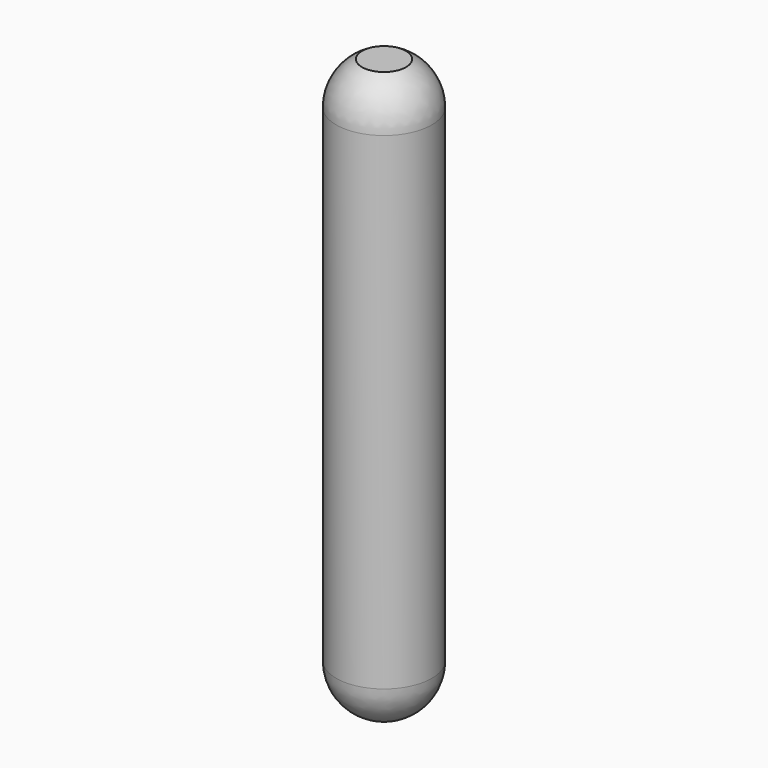
from build123d import *


with BuildPart() as f1:
    # F0 (on Right) → F1 (revolve)
    with BuildSketch(Plane.YZ):
        with BuildLine():
            Line((29.796517, -184.15), (29.796517, 0))
            Line((29.796517, 0), (29.796517, 184.15))
            ThreePointArc((29.796517, 184.15), (25.832619, 198.99952), (14.995577, 209.898109))
            Line((14.995577, 209.898109), (0, 209.898109))
            Line((0, 209.898109), (0, -213.946517))
            ThreePointArc((0, -213.946517), (21.069319, -205.219319), (29.796517, -184.15))
        make_face()
        with BuildLine():
            Line((29.796517, 184.15), (29.796517, 0))
            Line((29.796517, 0), (29.796517, -184.15))
            ThreePointArc((29.796517, -184.15), (21.069319, -205.219319), (0, -213.946517))
            Line((0, -213.946517), (0, -220.296517))
            ThreePointArc((0, -220.296517), (25.559447, -209.709447), (36.146517, -184.15))
            Line((36.146517, -184.15), (36.146517, 0))
            Line((36.146517, 0), (36.146517, 184.15))
            ThreePointArc((36.146517, 184.15), (30.881941, 202.935005), (16.621736, 216.248109))
            Line((16.621736, 216.248109), (0, 216.248109))
            Line((0, 216.248109), (0, 209.898109))
            Line((0, 209.898109), (14.995577, 209.898109))
            ThreePointArc((14.995577, 209.898109), (25.832619, 198.99952), (29.796517, 184.15))
        make_face()
    revolve(axis=Axis((0, 0, -2.18644), (0, 0, -1)))


solid = f1.part
